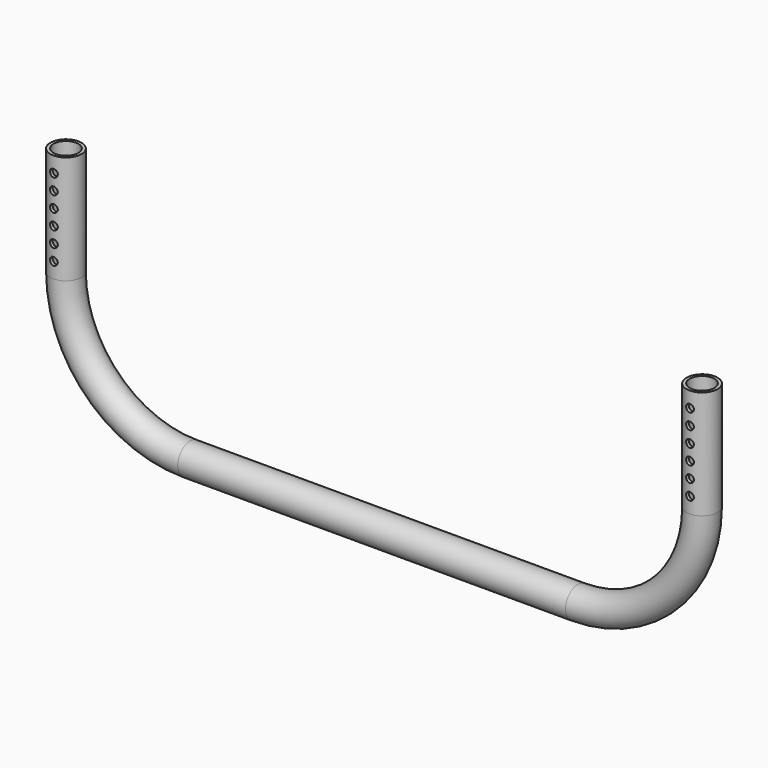
from build123d import *

# Parameters (mm, degrees)
F2_R     = 10
F2_R_2   = 8
F4_D     = 5
F4_DEPTH = 10.0010001
F5_D     = 5


with BuildPart() as f3:
    # F3: sweep along a path in F0
    with BuildLine(Plane.XZ) as f3_path:
        Line((-205, 150), (-205, 80))
        ThreePointArc((-205, 80), (-181.5685424949, 23.4314575051), (-125, 0))
        Line((-125, 0), (0, 0))
        Line((0, 0), (125, 0))
        ThreePointArc((125, 0), (181.5685424949, 23.4314575051), (205, 80))
        Line((205, 80), (205, 150))
    # F2 (on line) → F3 (sweep)
    with BuildSketch(Plane(origin=(0, 0, 150), x_dir=(1, 0, 0), z_dir=(0, 0, -1))):
        with Locations((-205, 0)):
            Circle(F2_R)
        with Locations((-205, 0)):
            Circle(F2_R_2, mode=Mode.SUBTRACT)
    sweep(path=f3_path.line)

    # F4 (through all, one way)
    with BuildSketch(Plane.XZ):
        with Locations((205, 140), (205, 130), (205, 120), (205, 110), (205, 100), (205, 90), (-205, 140), (-205, 130), (-205, 120), (-205, 110), (-205, 100), (-205, 90)):
            Circle(F4_D / 2)
    extrude(amount=-F4_DEPTH, mode=Mode.SUBTRACT)

    # F5 (through all)
    with Locations(Plane(origin=(0, 0, 0), x_dir=(1, 0, 0), z_dir=(0, 1, 0))):
        with Locations((-205, -140), (-205, -130), (-205, -120), (-205, -110), (-205, -100), (-205, -90), (205, -90), (205, -100), (205, -110), (205, -120), (205, -130), (205, -140)):
            Hole(F5_D / 2)


solid = f3.part
